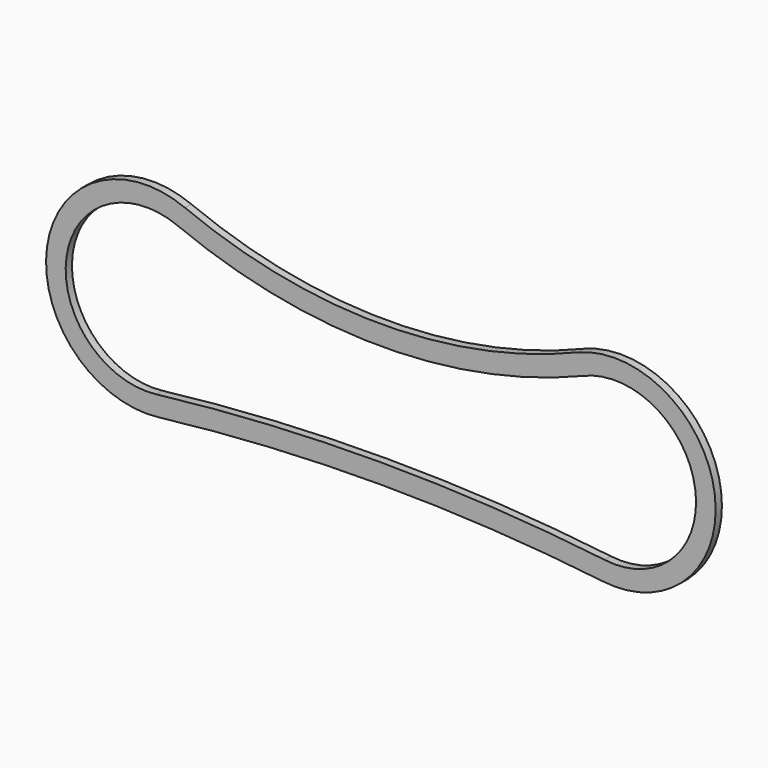
from build123d import *

# Parameters (mm, degrees)
F1_DEPTH = 20


with BuildPart() as f1:
    # F0 (on Front) → F1 (new body)
    with BuildSketch(Plane.XZ):
        with BuildLine():
            ThreePointArc((501.382803, 251.471809), (0.312663, 151.467268), (-501.049666, 249.996498))
            ThreePointArc((-501.049666, 249.996498), (-852.728256, 47.466242), (-568.511965, -242.218821))
            ThreePointArc((-568.511965, -242.218821), (-2.833355, -208.974781), (562.861781, -241.936399))
            ThreePointArc((562.861781, -241.936399), (849.795205, 44.349953), (501.382803, 251.471809))
        make_face()
        with BuildLine():
            ThreePointArc((-574.356185, -192.561545), (-803.191367, 40.67679), (-520.039285, 203.742911))
            ThreePointArc((-520.039285, 203.742911), (-3.464008, 101.467085), (513.385324, 202.348849))
            ThreePointArc((513.385324, 202.348849), (799.747738, 41.417528), (568.932212, -192.305632))
            ThreePointArc((568.932212, -192.305632), (-2.719476, -158.974752), (-574.356185, -192.561545))
        make_face(mode=Mode.SUBTRACT)
    extrude(amount=F1_DEPTH)


solid = f1.part
